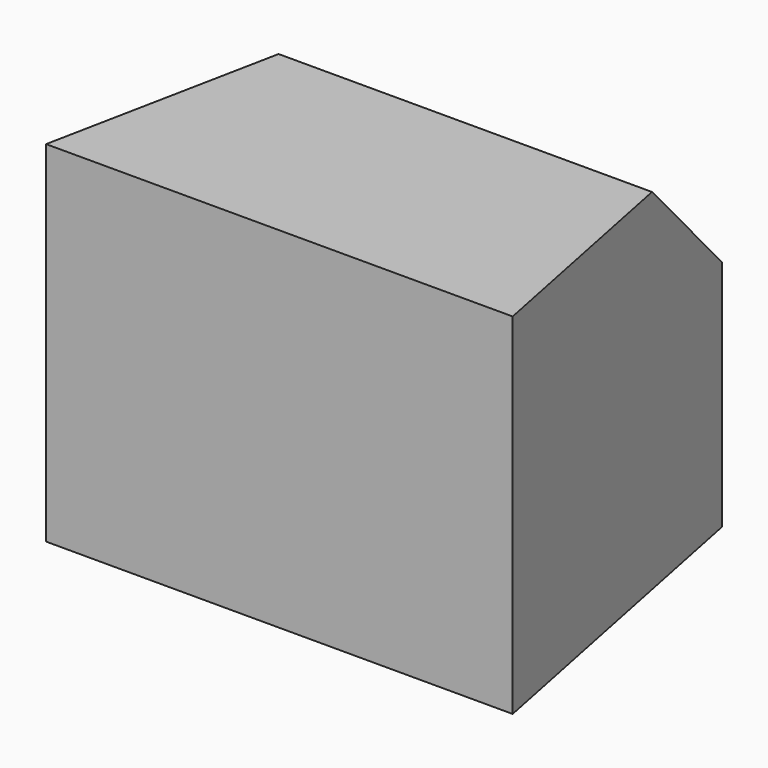
from build123d import *

# Parameters (mm, degrees)
PAD_DEPTH    = 3
CHAMFER_SIZE = 1


with BuildPart() as part:
    # Sketch → Pad (new body)
    with BuildSketch(Plane.XY):
        Polygon((0, 0), (2, 0), (1.4, 2.9922), (0, 2.9922), (-1.4, 2.9922), (-2, 0), align=None)
    extrude(amount=PAD_DEPTH)

    # Chamfer
    chamfer_edges = [part.edges().sort_by_distance(p)[0] for p in [
        (-0.7, 2.9922, 3),
        (0.7, 2.9922, 3),
    ]]
    chamfer(chamfer_edges, length=CHAMFER_SIZE)


solid = part.part
